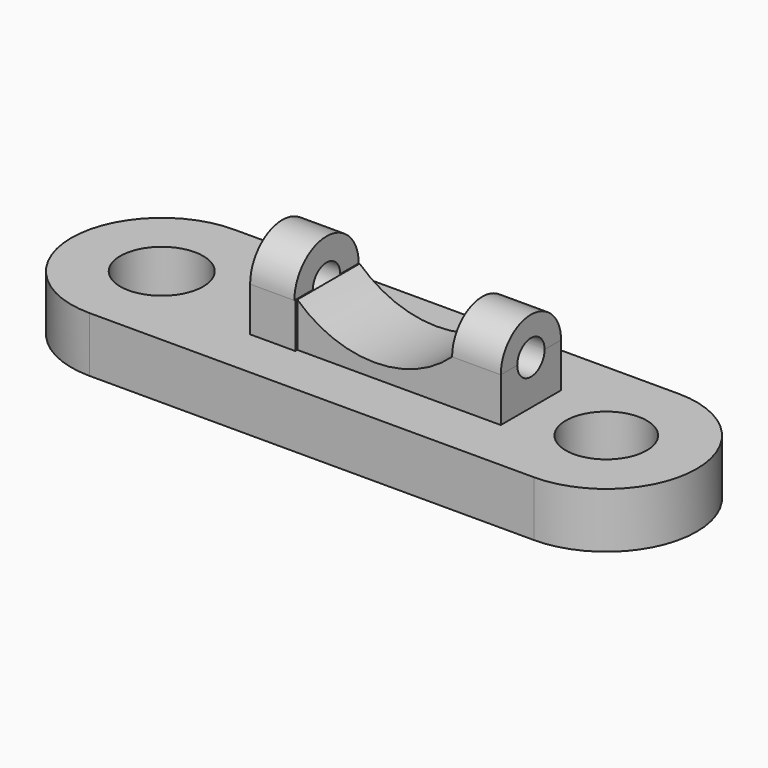
from build123d import *

# Parameters (mm, degrees)
F0_W        = 51.033404
F0_H        = 20.759352
F1_DEPTH    = 25.4
F2_R        = 4.64909
F2_R_2      = 4.755167
F3_DEPTH    = 50.8
F1_FACE_R   = 4.755167
F1_FACE_R_2 = 4.64909
F4_DEPTH    = 19.05
F5_W        = 5.189838
F5_H        = 9.226378
F5_W_2      = 5.766489
F5_H_2      = 8.64973
F6_DEPTH    = 5.08
F8_DEPTH    = 5.08
F10_DEPTH   = 5.588
F11_R       = 1.96352
F12_DEPTH   = 50.8
F13_W       = 17.587781
F13_H       = 8.938054
F14_DEPTH   = 5.08
F16_DEPTH   = 50.8


with BuildPart() as f1:
    # F0 (on Top) → F1 (new body)
    with BuildSketch(Plane.XY):
        with BuildLine():
            ThreePointArc((-25.516702, 10.379676), (-35.896378, 0), (-25.516702, -10.379676))
            Line((-25.516702, -10.379676), (-25.516702, 10.379676))
        make_face()
        Rectangle(F0_W, F0_H)
        with BuildLine():
            Line((25.516702, 10.379676), (25.516702, -10.379676))
            ThreePointArc((25.516702, -10.379676), (35.896378, 0), (25.516702, 10.379676))
        make_face()
    extrude(amount=F1_DEPTH)

    # F2 (on face) → F3 (cut)
    with BuildSketch(Plane.XY.offset(25.4)):
        with Locations((25.516702, 0)):
            Circle(F2_R)
        with Locations((-25.516702, 0)):
            Circle(F2_R_2)
    extrude(amount=-F3_DEPTH, mode=Mode.SUBTRACT)

    # F1_face (on face) → F4 (cut)
    with BuildSketch(Plane.XY.offset(25.4)):
        with BuildLine():
            ThreePointArc((-25.516702, 10.379676), (-35.896378, 0), (-25.516702, -10.379676))
            Line((-25.516702, -10.379676), (25.516702, -10.379676))
            ThreePointArc((25.516702, -10.379676), (35.896378, 0), (25.516702, 10.379676))
            Line((25.516702, 10.379676), (-25.516702, 10.379676))
        make_face()
        with Locations((-25.516702, 0)):
            Circle(F1_FACE_R, mode=Mode.SUBTRACT)
        with Locations((25.516702, 0)):
            Circle(F1_FACE_R_2, mode=Mode.SUBTRACT)
    extrude(amount=-F4_DEPTH, mode=Mode.SUBTRACT)

    # F5 (on face) → F6 (join)
    with BuildSketch(Plane.XY.offset(6.35)):
        with Locations((-9.082216, 0)):
            Rectangle(F5_W, F5_H)
        with Locations((13.983728, 0)):
            Rectangle(F5_W_2, F5_H_2)
    extrude(amount=F6_DEPTH)

    # F7 (on face) → F8 (join)
    with BuildSketch(Plane(origin=(-11.677135, 0, 0), x_dir=(0, -1, 0), z_dir=(-1, 0, 0))):
        with BuildLine():
            Line((-4.613189, 11.43), (4.613189, 11.43))
            ThreePointArc((4.613189, 11.43), (0, 16.043189), (-4.613189, 11.43))
        make_face()
    extrude(amount=-F8_DEPTH)

    # F9 (on face) → F10 (join)
    with BuildSketch(Plane.YZ.offset(16.866973)):
        with BuildLine():
            Line((-4.324865, 11.43), (4.324865, 11.43))
            ThreePointArc((4.324865, 11.43), (0, 15.754865), (-4.324865, 11.43))
        make_face()
    extrude(amount=-F10_DEPTH)

    # F11 (on face) → F12 (cut)
    with BuildSketch(Plane.YZ.offset(16.866973)):
        with Locations((0, 11.43)):
            Circle(F11_R)
    extrude(amount=-F12_DEPTH, mode=Mode.SUBTRACT)

    # F13 (on face) → F14 (join)
    with BuildSketch(Plane.XY.offset(6.35)):
        with Locations((2.306593, 0.144162)):
            Rectangle(F13_W, F13_H)
    extrude(amount=F14_DEPTH)

    # F15 (on face) → F16 (cut)
    with BuildSketch(Plane.XZ.offset(4.324865)):
        with BuildLine():
            Line((11.278973, 11.43), (-6.487297, 11.43))
            ThreePointArc((-6.487297, 11.43), (2.395838, 7.957832), (11.278973, 11.43))
        make_face()
    extrude(amount=-F16_DEPTH, mode=Mode.SUBTRACT)


solid = f1.part
